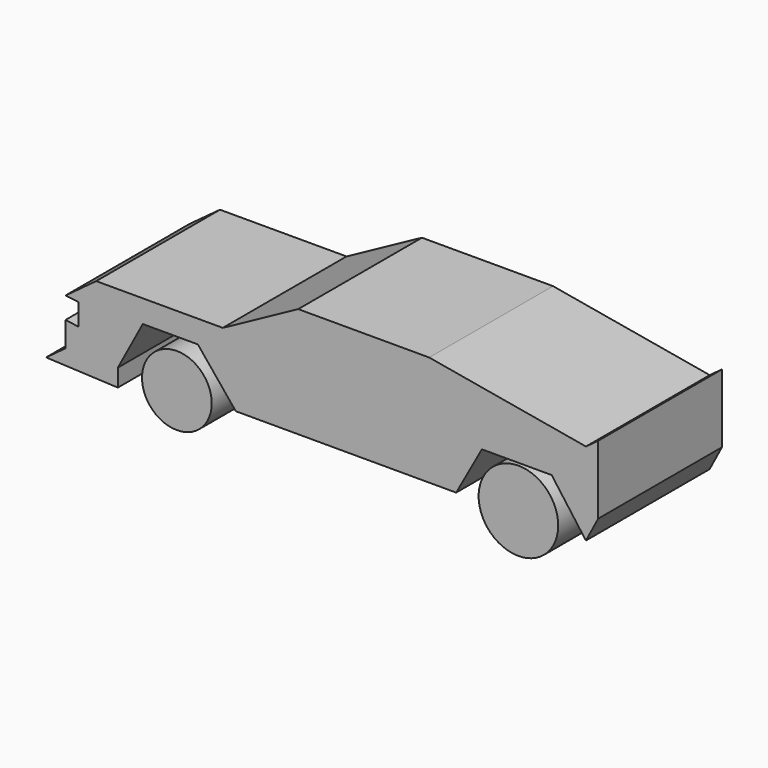
from build123d import *

# Parameters (mm, degrees)
F1_DEPTH = 25.4
F2_R     = 5.725648
F3_DEPTH = 25.4
F4_R     = 6.531804
F5_DEPTH = 25.4


with BuildPart() as f1:
    # F0 (on Front) → F1 (new body)
    with BuildSketch(Plane.XZ):
        Polygon((-46.907243, 5.829874), (-42.819422, 13.469021), (-33.773065, 13.469021), (-27.541131, 5.829874), (8.644298, 5.829874), (12.865931, 13.469021), (24.324648, 13.469021), (29.953493, 5.829874), (31.963792, 9.649448), (31.963792, 13.469021), (31.963792, 20.907136), (29.953493, 19.425863), (4.221634, 23.922589), (-17.288594, 23.922589), (-29.678462, 17.184902), (-50.458569, 17.184902), (-55.501551, 13.469021), (-53.388081, 13.232813), (-53.388081, 9.649448), (-55.501551, 9.934837), (-55.501551, 5.829874), (-58.692792, 3.478433), (-46.907243, 2.943043), align=None)
    extrude(amount=F1_DEPTH)


with BuildPart() as f3:
    # F2 (on Front) → F3 (new body)
    with BuildSketch(Plane.XZ):
        with Locations((-37.217036, 5.671549)):
            Circle(F2_R)
    extrude(amount=F3_DEPTH)


with BuildPart() as f5:
    # F4 (on Front) → F5 (new body)
    with BuildSketch(Plane.XZ):
        with Locations((18.867608, 6.525639)):
            Circle(F4_R)
    extrude(amount=F5_DEPTH)


solid = Compound([f1.part, f3.part, f5.part])
